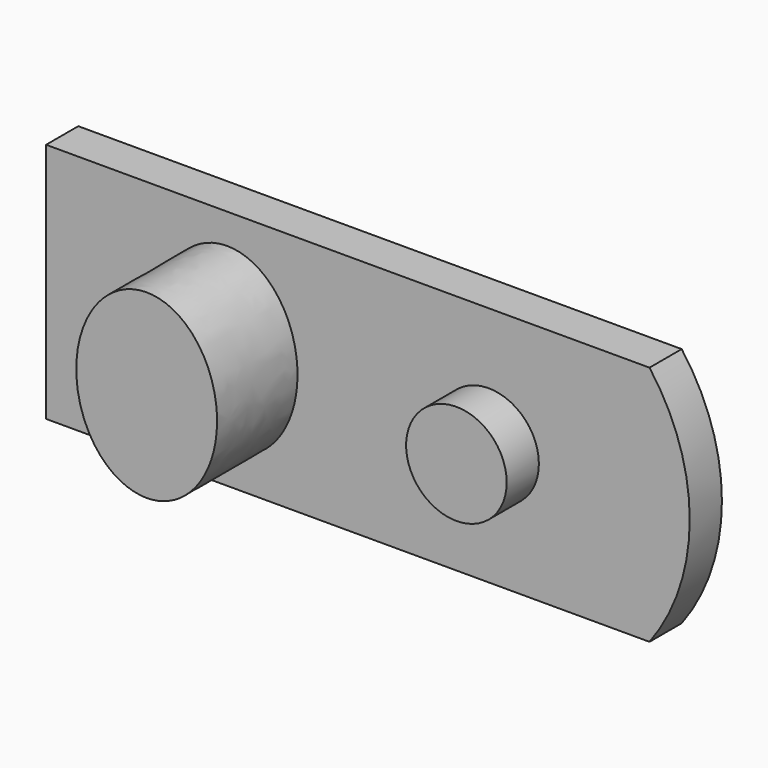
from build123d import *

# Parameters (mm, degrees)
F0_W     = 190.5
F0_H     = 76.2
F1_DEPTH = 12.7
F3_DEPTH = 31.75
F4_R     = 15.875
F5_DEPTH = 12.7


with BuildPart() as f1:
    # F0 (on Front) → F1 (new body)
    with BuildSketch(Plane.XZ):
        Rectangle(F0_W, F0_H)
        with BuildLine():
            Line((95.25, 38.1), (95.25, -38.1))
            ThreePointArc((95.25, -38.1), (107.95, 0), (95.25, 38.1))
        make_face()
    extrude(amount=F1_DEPTH)

    # F2 (on face) → F3 (join)
    with BuildSketch(Plane.XZ.offset(12.7)):
        with BuildLine():
            add(Edge.make_bspline(
                [(-38.1, -28.575), (0.394829, -28.575), (-18.852585, 14.2875), (-38.1, 57.15), (-57.347415, 14.2875), (-76.594829, -28.575), (-38.1, -28.575)],
                knots=[0, 0, 0, 2.094395, 2.094395, 4.18879, 4.18879, 6.283185, 6.283185, 6.283185], degree=2, weights=[1, 0.5, 1, 0.5, 1, 0.5, 1]))
        make_face()
    extrude(amount=F3_DEPTH)

    # F4 (on face) → F5 (join)
    with BuildSketch(Plane.XZ.offset(12.7)):
        with Locations((44.45, 0)):
            Circle(F4_R)
    extrude(amount=F5_DEPTH)


solid = f1.part
